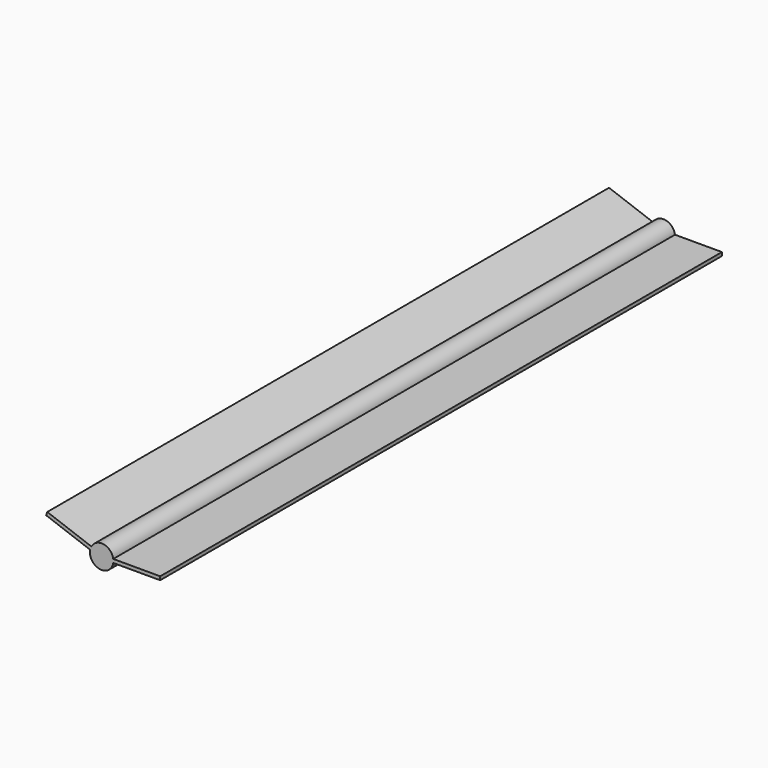
from build123d import *

# Parameters (mm, degrees)
F1_DEPTH = 304.8


with BuildPart() as f1:
    # F0 (on Front) → F1 (new body)
    with BuildSketch(Plane.XZ):
        with BuildLine():
            Line((-24.128812, 7.971266), (-4.980249, 1.001759))
            ThreePointArc((-4.980249, 1.001759), (-0.882133, -5.002823), (5.022525, -0.762))
            Line((5.022525, -0.762), (25.4, -0.762))
            Line((25.4, -0.762), (25.4, 0.762))
            Line((25.4, 0.762), (5.022525, 0.762))
            ThreePointArc((5.022525, 0.762), (0.882133, 5.002823), (-4.45901, 2.43385))
            Line((-4.45901, 2.43385), (-23.607573, 9.403357))
            Line((-23.607573, 9.403357), (-23.868193, 8.687312))
            Line((-23.868193, 8.687312), (-24.128812, 7.971266))
        make_face()
    extrude(amount=F1_DEPTH)


solid = f1.part
